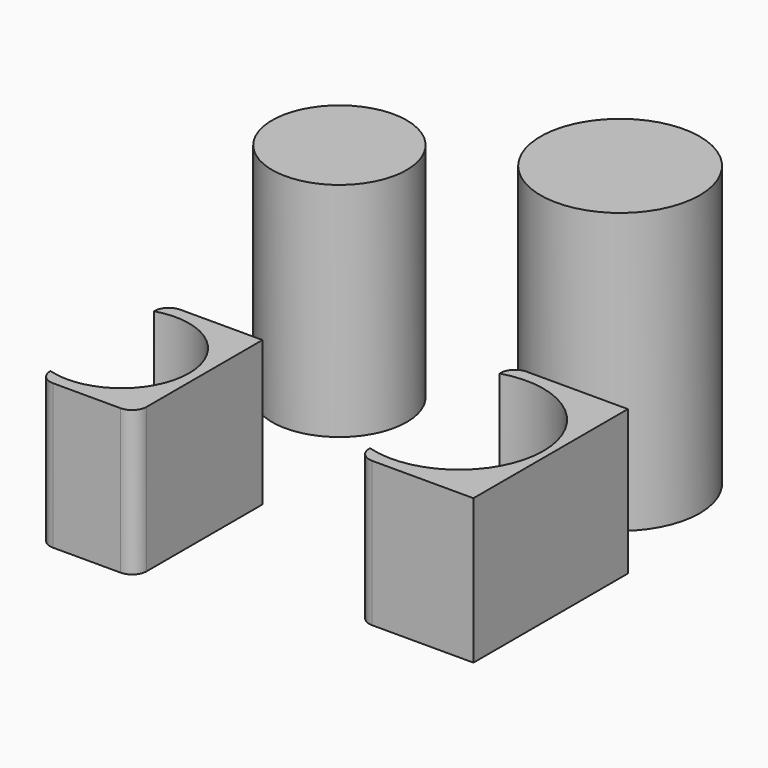
from build123d import *

# Parameters (mm, degrees)
F0_R     = 13.95
F1_DEPTH = 46
F0_R_2   = 16.5
F2_DEPTH = 58
F4_DEPTH = 30
F5_R     = 3
F6_R     = 3


with BuildPart() as f1:
    # F0 (on Top) → F1 (new body)
    with BuildSketch(Plane.XY):
        with Locations((-31.986754, 22.599338)):
            Circle(F0_R)
    extrude(amount=F1_DEPTH)


with BuildPart() as f2:
    # F0 (on Top) → F2 (new body)
    with BuildSketch(Plane.XY):
        with Locations((22.425497, 27.293047)):
            Circle(F0_R_2)
    extrude(amount=F2_DEPTH)


with BuildPart() as f4:
    # F3 (on Top) → F4 (new body)
    with BuildSketch(Plane.XY):
        with BuildLine():
            Line((19.039112, -36.466744), (43.039112, -36.466744))
            Line((43.039112, -36.466744), (43.039112, 3.533256))
            Line((43.039112, 3.533256), (19.039112, 3.533256))
            Line((19.039112, 3.533256), (19.039112, 0.303766))
            ThreePointArc((19.039112, 0.303766), (34.497362, -2.435529), (41.539112, -16.466744))
            ThreePointArc((41.539112, -16.466744), (34.497362, -30.497959), (19.039112, -33.237254))
            Line((19.039112, -33.237254), (19.039112, -36.466744))
        make_face()
        with BuildLine():
            Line((-18.248345, -14.502387), (-38.248345, -14.502387))
            Line((-38.248345, -14.502387), (-38.248345, -17.585979))
            ThreePointArc((-38.248345, -17.585979), (-25.881745, -19.777415), (-20.248345, -31.002387))
            ThreePointArc((-20.248345, -31.002387), (-25.881745, -42.227359), (-38.248345, -44.418795))
            Line((-38.248345, -44.418795), (-38.248345, -47.502387))
            Line((-38.248345, -47.502387), (-18.248345, -47.502387))
            Line((-18.248345, -47.502387), (-18.248345, -14.502387))
        make_face()
    extrude(amount=F4_DEPTH)

    # F5
    f5_edges = [f4.edges().sort_by_distance(p)[0] for p in [
        (-38.248345, -47.502387, 15),
        (-38.248345, -14.502387, 15),
        (19.039112, 3.533256, 15),
        (19.039112, -36.466744, 15),
    ]]
    fillet(f5_edges, radius=F5_R)

    # F6
    f6_edges = [f4.edges().sort_by_distance(p)[0] for p in [
        (-18.248345, -47.502387, 15),
    ]]
    fillet(f6_edges, radius=F6_R)


solid = Compound([f1.part, f2.part, f4.part])
